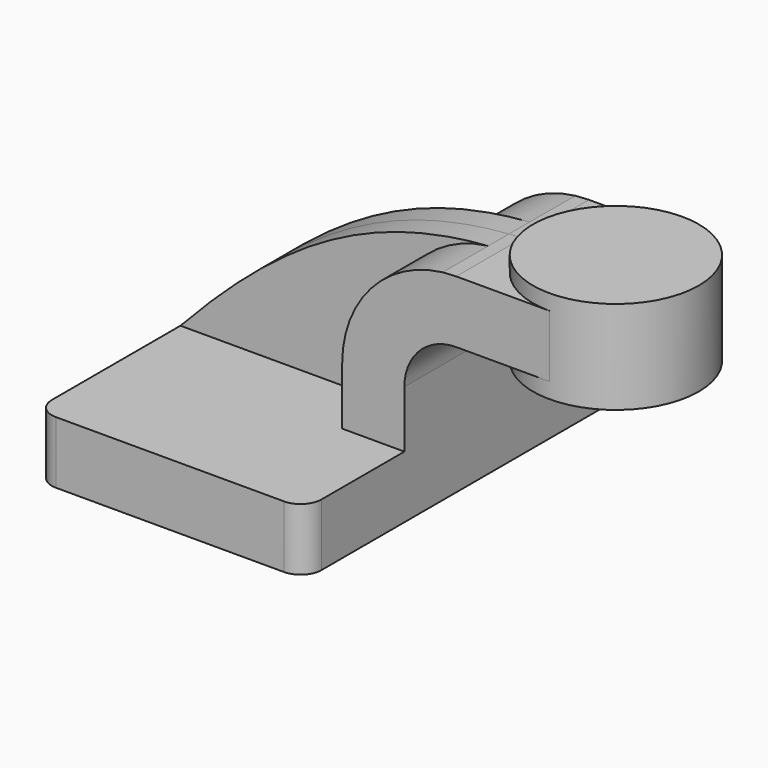
from build123d import *

# Parameters (mm, degrees)
F1_DEPTH = 63.5
F0_W     = 25.4
F0_H     = 19.05
F2_DEPTH = 25.4
F3_DEPTH = 7.9375
F4_DEPTH = 25.4
F5_DEPTH = 63.5
F7_R     = 6.35


with BuildPart() as f1:
    # F0 (on Front) → F1 (new body)
    with BuildSketch(Plane.XZ):
        Polygon((-41.275, 9.525), (-41.275, -9.525), (41.275, -9.525), (41.275, 9.525), (22.225, 9.525), align=None)
    extrude(amount=F1_DEPTH)

    # F0 (on Front) → F2 (join)
    with BuildSketch(Plane.XZ):
        with Locations((73.025, 52.4002)):
            Rectangle(F0_W, F0_H)
        with BuildLine():
            Line((22.225, 9.525), (41.275, 9.525))
            Line((41.275, 9.525), (41.275, 27.0002))
            ThreePointArc((41.275, 27.0002), (45.9246798487, 38.2255201513), (57.15, 42.8752))
            Line((57.15, 42.8752), (60.325, 42.8752))
            Line((60.325, 42.8752), (60.325, 61.9252))
            Line((60.325, 61.9252), (57.15, 61.9252))
            add(Edge.make_bspline(
                [(52.9823235554, 61.6756394068), (54.3561666256, 61.7778957216), (55.7451531138, 61.8610815688), (57.15, 61.9252)],
                knots=[107.6072789541, 107.6072789541, 107.6072789541, 107.6072789541, 111.5045361635, 111.5045361635, 111.5045361635, 111.5045361635], degree=3))
            ThreePointArc((52.9823235554, 61.6756394068), (31.0223161682, 50.1756128892), (22.225, 27.0002))
            Line((22.225, 27.0002), (22.225, 9.525))
        make_face()
    extrude(amount=F2_DEPTH)

    # F0 (on Front) → F3 (join, symmetric)
    with BuildSketch(Plane.XZ):
        with BuildLine():
            add(Edge.make_bspline(
                [(-41.275, 9.525), (-11.3392454838, 41.4901042483), (15.0491037151, 58.8522374069), (52.9823235554, 61.6756394068)],
                knots=[0, 0, 0, 0, 107.6072789541, 107.6072789541, 107.6072789541, 107.6072789541], degree=3))
            Line((-41.275, 9.525), (22.225, 9.525))
            Line((22.225, 9.525), (22.225, 27.0002))
            ThreePointArc((22.225, 27.0002), (31.0223161682, 50.1756128892), (52.9823235554, 61.6756394068))
        make_face()
    extrude(amount=F3_DEPTH, both=True)

    # F0 (on Front) → F4 (join, symmetric)
    with BuildSketch(Plane.XZ):
        with BuildLine():
            Line((22.225, 9.525), (41.275, 9.525))
            Line((41.275, 9.525), (41.275, 27.0002))
            ThreePointArc((41.275, 27.0002), (45.9246798487, 38.2255201513), (57.15, 42.8752))
            Line((57.15, 42.8752), (60.325, 42.8752))
            Line((60.325, 42.8752), (60.325, 61.9252))
            Line((60.325, 61.9252), (57.15, 61.9252))
            add(Edge.make_bspline(
                [(52.9823235554, 61.6756394068), (54.3561666256, 61.7778957216), (55.7451531138, 61.8610815688), (57.15, 61.9252)],
                knots=[107.6072789541, 107.6072789541, 107.6072789541, 107.6072789541, 111.5045361635, 111.5045361635, 111.5045361635, 111.5045361635], degree=3))
            ThreePointArc((52.9823235554, 61.6756394068), (31.0223161682, 50.1756128892), (22.225, 27.0002))
            Line((22.225, 27.0002), (22.225, 9.525))
        make_face()
        with Locations((73.025, 52.4002)):
            Rectangle(F0_W, F0_H)
    extrude(amount=F4_DEPTH, both=True)

    # F0 (on Front) → F5 (join)
    with BuildSketch(Plane.XZ):
        Polygon((-41.275, 9.525), (-41.275, -9.525), (41.275, -9.525), (41.275, 9.525), (22.225, 9.525), align=None)
    extrude(amount=-F5_DEPTH)

    # F0 (on Front) → F6 (revolve)
    with BuildSketch(Plane.XZ):
        Polygon((85.725, 66.675), (85.725, 61.9252), (85.725, 42.8752), (85.725, 38.1), (111.125, 38.1), (111.125, 66.675), align=None)
    revolve(axis=Axis((85.725, 0, 52.3875), (0, 0, 1)))

    # F7
    f7_edges = [f1.edges().sort_by_distance(p)[0] for p in [
        (-41.275, -63.5, 0),
        (41.275, -63.5, 0),
        (41.275, 63.5, 0),
        (-41.275, 63.5, 0),
    ]]
    fillet(f7_edges, radius=F7_R)


solid = f1.part
